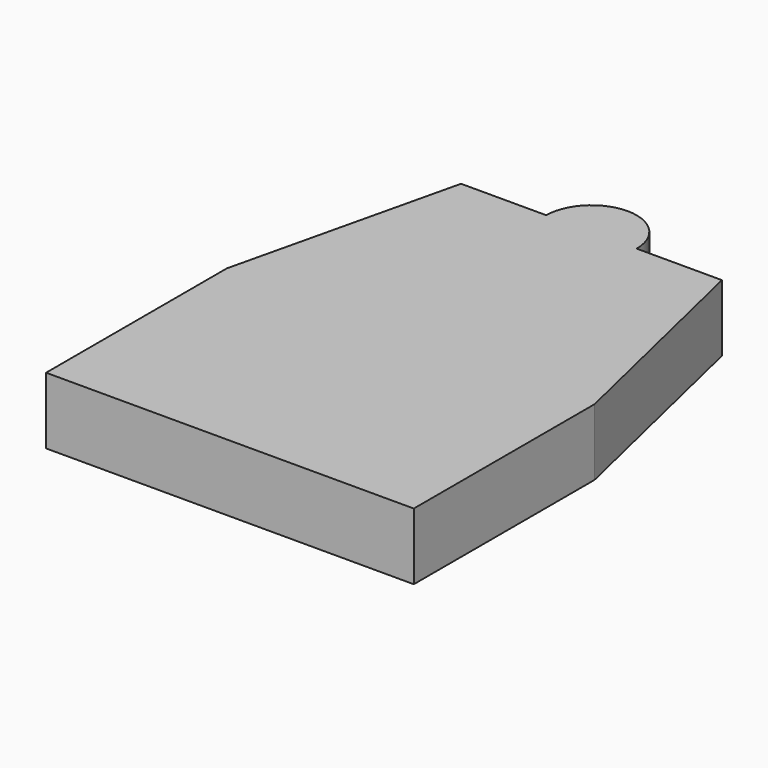
from build123d import *

# Parameters (mm, degrees)
F1_DEPTH = 14.986


with BuildPart() as f1:
    # F0 (on Top) → F1 (new body)
    with BuildSketch(Plane.XY):
        with BuildLine():
            Line((-33.8570637468, 17.6956683332), (-33.8570637468, -33.1043316668))
            Line((-33.8570637468, -33.1043316668), (48.8083878372, -33.1043316668))
            Line((48.8083878372, -33.1043316668), (48.8083878372, 17.6956683332))
            Line((48.8083878372, 17.6956683332), (36.8011148317, 68.4956683332))
            Line((36.8011148317, 68.4956683332), (17.6356646141, 68.4956683332))
            ThreePointArc((17.6356646141, 68.4956683332), (7.4756620452, 58.3356657643), (-2.6843405237, 68.4956683332))
            Line((-2.6843405237, 68.4956683332), (-21.8497907413, 68.4956683332))
            Line((-21.8497907413, 68.4956683332), (-33.8570637468, 17.6956683332))
        make_face()
        with BuildLine():
            Line((17.6356646141, 68.4956683332), (-2.6843405237, 68.4956683332))
            ThreePointArc((-2.6843405237, 68.4956683332), (7.4756620452, 58.3356657643), (17.6356646141, 68.4956683332))
        make_face()
        with BuildLine():
            ThreePointArc((17.6356646141, 68.4956683332), (7.4756620452, 78.6556709021), (-2.6843405237, 68.4956683332))
            Line((-2.6843405237, 68.4956683332), (17.6356646141, 68.4956683332))
        make_face()
    extrude(amount=F1_DEPTH)


solid = f1.part
